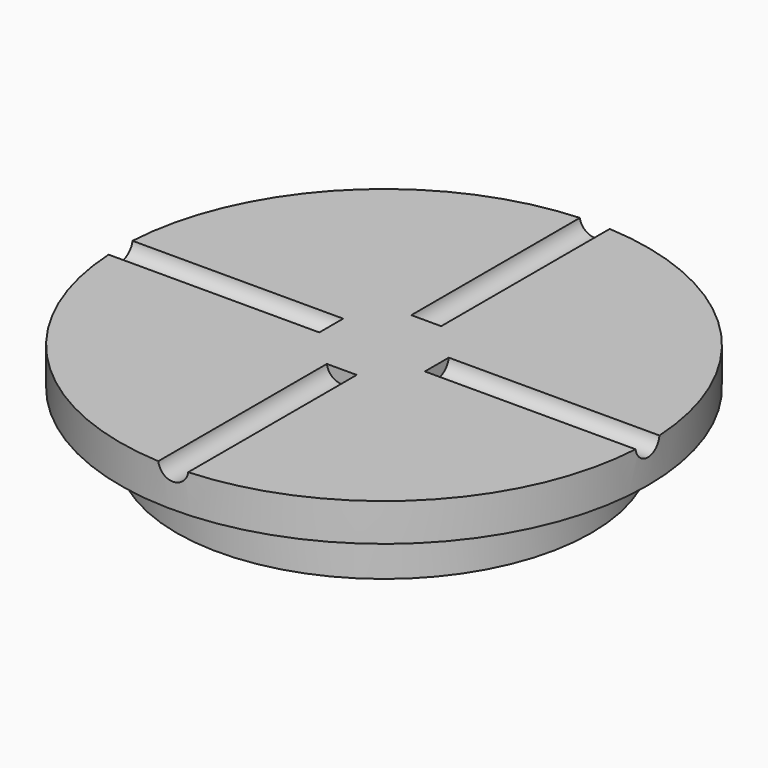
from build123d import *

# Parameters (mm, degrees)
SKETCH_R           = 27.5
PAD_DEPTH          = 8
SKETCH001_R        = 35
PAD001_DEPTH       = 5
SKETCH002_R        = 2
POCKET_DEPTH       = 227.690759
POLARPATTERN_COUNT = 4


with BuildPart() as part:
    # Sketch → Pad (new body)
    with BuildSketch(Plane.XY):
        Circle(SKETCH_R)
    extrude(amount=PAD_DEPTH)

    # Sketch001 (on Face3 of Pad) → Pad001 (join)
    with BuildSketch(Plane.XY.offset(8)):
        Circle(SKETCH001_R)
    extrude(amount=PAD001_DEPTH)

    # Sketch002 → Pocket (cut, through all)
    with BuildSketch(Plane.XZ.offset(7)):
        with Locations((0, 13.269916)):
            Circle(SKETCH002_R)
    pocket = extrude(amount=POCKET_DEPTH, mode=Mode.SUBTRACT)

    # PolarPattern: Pocket ×4 about axis
    polarpattern_axis = Axis((0, 0, 0), (0, 0, 1))
    for i in range(1, POLARPATTERN_COUNT):
        add(pocket.rotate(polarpattern_axis, i * 360 / POLARPATTERN_COUNT), mode=Mode.SUBTRACT)


solid = part.part
